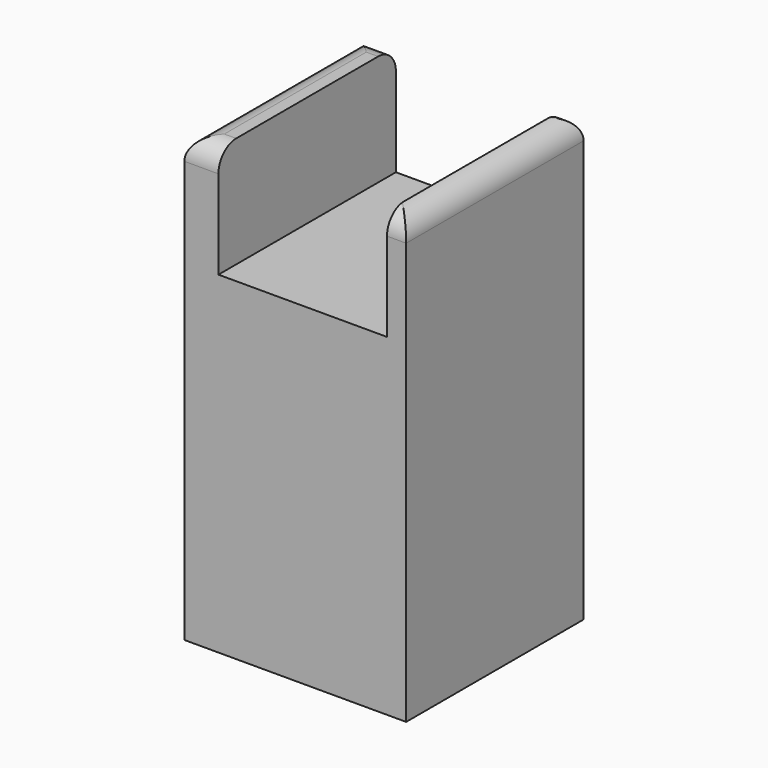
from build123d import *

# Parameters (mm, degrees)
F0_W     = 50
F0_H     = 100
F1_DEPTH = 50
F2_R     = 5
F4_W     = 38
F4_H     = 53.0364588497
F5_DEPTH = 25


with BuildPart() as f1:
    # F0 (on Front) → F1 (new body)
    with BuildSketch(Plane.XZ):
        with Locations((-43.9743227283, -14.4022647291)):
            Rectangle(F0_W, F0_H)
    extrude(amount=F1_DEPTH)

    # F2
    f2_edges = [f1.edges().sort_by_distance(p)[0] for p in [
        (-18.974323, -25, 35.597735),
        (-68.974323, -25, 35.597735),
        (-43.974323, 0, 35.597735),
        (-43.974323, -50, 35.597735),
    ]]
    fillet(f2_edges, radius=F2_R)

    # F4 (on face) → F5 (cut)
    with BuildSketch(Plane.XY.offset(35.5977352709)):
        with Locations((-42.2953676743, -26.5182294249)):
            Rectangle(F4_W, F4_H)
    extrude(amount=-F5_DEPTH, mode=Mode.SUBTRACT)


solid = f1.part
